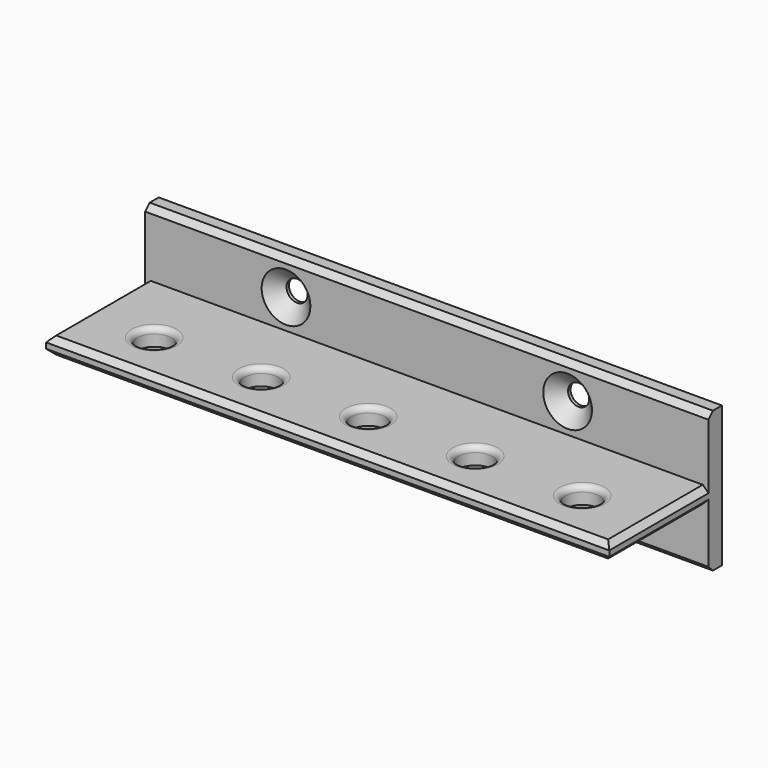
from build123d import *

# Parameters (mm, degrees)
SKETCH_W               = 100
SKETCH_H               = 25
PAD_DEPTH              = 3
SKETCH001_W            = 100
SKETCH001_H            = 25
SKETCH001_R            = 1.875
PAD001_DEPTH           = 3
SKETCH002_R            = 3
POCKET_DEPTH           = 13.501
LINEARPATTERN_COUNT    = 3
LINEARPATTERN_PITCH    = 19
LINEARPATTERN001_COUNT = 3
LINEARPATTERN001_PITCH = 19
FILLET_R               = 1
CHAMFER_SIZE           = 2.45
CHAMFER001_SIZE        = 1


with BuildPart() as part:
    # Sketch → Pad (new body)
    with BuildSketch(Plane.XY):
        Rectangle(SKETCH_W, SKETCH_H)
    extrude(amount=PAD_DEPTH)

    # Sketch001 → Pad001 (join)
    with BuildSketch(Plane(origin=(0, 12.5, 2), x_dir=(1, 0, 0), z_dir=(0, -1, 0))):
        Rectangle(SKETCH001_W, SKETCH001_H)
        with Locations((-25, 6.25)):
            Circle(SKETCH001_R, mode=Mode.SUBTRACT)
        with Locations((25, 6.25)):
            Circle(SKETCH001_R, mode=Mode.SUBTRACT)
    extrude(amount=PAD001_DEPTH)

    # Sketch002 → Pocket (cut, through all)
    with BuildSketch(Plane.XY.offset(3)):
        with Locations((0, -3.5)):
            Circle(SKETCH002_R)
    pocket = extrude(amount=-POCKET_DEPTH, mode=Mode.SUBTRACT)

    # LinearPattern: Pocket ×3
    with Locations(*[(i * LINEARPATTERN_PITCH, 0, 0) for i in range(1, LINEARPATTERN_COUNT)]):
        add(pocket, mode=Mode.SUBTRACT)

    # LinearPattern001: Pocket ×3
    with Locations(*[(-i * LINEARPATTERN001_PITCH, 0, 0) for i in range(1, LINEARPATTERN001_COUNT)]):
        add(pocket, mode=Mode.SUBTRACT)

    # Fillet
    fillet_edges = [part.edges().sort_by_distance(p)[0] for p in [
        (-3, -3.5, 3),
        (-41, -3.5, 3),
        (-22, -3.5, 3),
        (16, -3.5, 3),
        (35, -3.5, 3),
    ]]
    fillet(fillet_edges, radius=FILLET_R)

    # Chamfer
    chamfer_edges = [part.edges().sort_by_distance(p)[0] for p in [
        (-26.875, 9.5, 8.25),
        (23.125, 9.5, 8.25),
    ]]
    chamfer(chamfer_edges, length=CHAMFER_SIZE)

    # Chamfer001
    chamfer001_edges = [part.edges().sort_by_distance(p)[0] for p in [
        (0, 9.5, 14.5),
        (0, -12.5, 3),
        (0, -12.5, 0),
        (-50, -1.5, 3),
        (50, -1.5, 3),
        (50, -1.5, 0),
        (-50, -1.5, 0),
        (0, 9.5, -10.5),
    ]]
    chamfer(chamfer001_edges, length=CHAMFER001_SIZE)


solid = part.part
